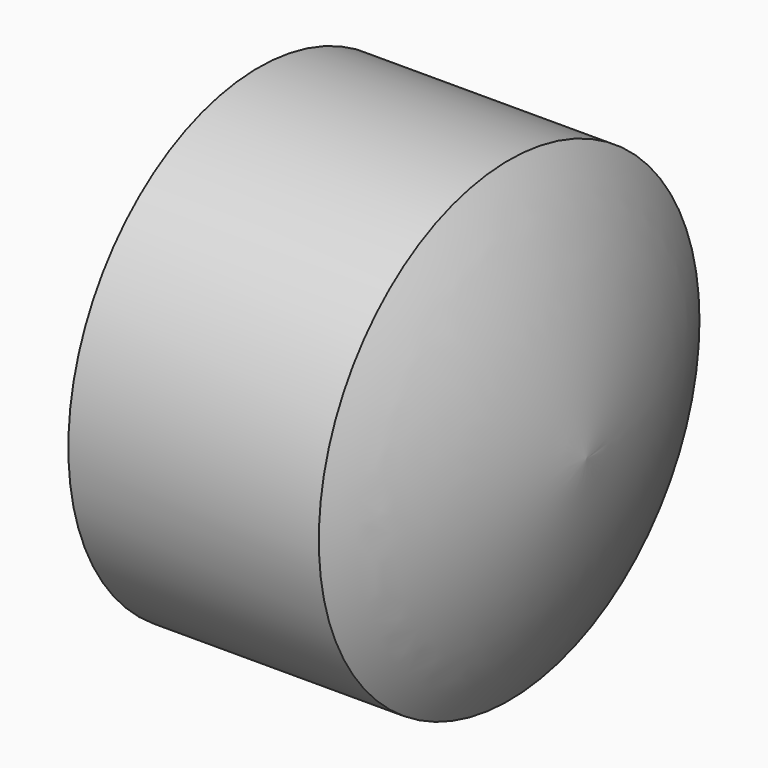
from build123d import *

# Parameters (mm, degrees)
F0_W     = 15
F0_H     = 3
F2_R     = 4.1
F4_R     = 4
F5_DEPTH = 11


with BuildPart() as f1:
    # F0 (on Top) → F1 (revolve)
    with BuildSketch(Plane.XY):
        with Locations((7.5, 12.75)):
            Rectangle(F0_W, F0_H)
        with BuildLine():
            ThreePointArc((19.6392323583, 0), (18.1392323583, 7.3918343789), (15, 14.25))
            Line((15, 14.25), (15, 11.25))
            ThreePointArc((15, 11.25), (16.9445632196, 5.7296263006), (18.1392323583, 0))
            Line((18.1392323583, 0), (19.6392323583, 0))
        make_face()
    revolve(axis=Axis((16.0183925182, 0, 0), (1, 0, 0)))

    # F2 (on Right) → F3 (join, up to the next surface of F1)
    with BuildSketch(Plane.YZ):
        Circle(F2_R)
    extrude(until=Until.NEXT)

    # F4 (on face) → F5 (cut)
    with BuildSketch(Plane(origin=(0, 0, 0), x_dir=(0, -1, 0), z_dir=(-1, 0, 0))):
        Circle(F4_R)
    extrude(amount=-F5_DEPTH, mode=Mode.SUBTRACT)


solid = f1.part
